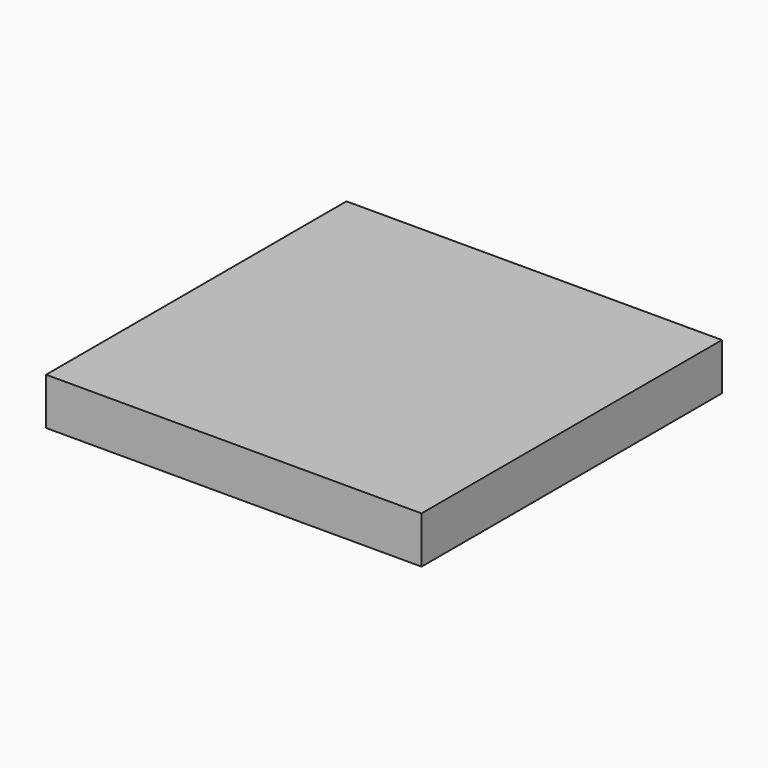
from build123d import *

# Parameters (mm, degrees)
F0_W     = 175
F0_H     = 50
F0_W_2   = 150
F0_H_2   = 150
F1_DEPTH = 50


with BuildPart() as f1:
    # F0 (on Top) → F1 (new body)
    with BuildSketch(Plane.XY):
        Polygon((200, -200), (200, 200), (-200, 200), (-200, 75), (-200, -75), (-200, -200), align=None)
        with Locations((-87.5, -150)):
            Rectangle(F0_W, F0_H, mode=Mode.SUBTRACT)
        with Locations((100, -100)):
            Rectangle(F0_W_2, F0_H_2, mode=Mode.SUBTRACT)
        with Locations((-100, 0)):
            Rectangle(F0_W_2, F0_H_2, mode=Mode.SUBTRACT)
        with Locations((-87.5, 150)):
            Rectangle(F0_W, F0_H, mode=Mode.SUBTRACT)
        with Locations((100, 100)):
            Rectangle(F0_W_2, F0_H_2, mode=Mode.SUBTRACT)
        with Locations((-100, 0)):
            Rectangle(F0_W_2, F0_H_2)
        with Locations((-87.5, -150)):
            Rectangle(F0_W, F0_H)
        with Locations((100, -100)):
            Rectangle(F0_W_2, F0_H_2)
        with Locations((100, 100)):
            Rectangle(F0_W_2, F0_H_2)
        with Locations((-87.5, 150)):
            Rectangle(F0_W, F0_H)
    extrude(amount=F1_DEPTH)


solid = f1.part
